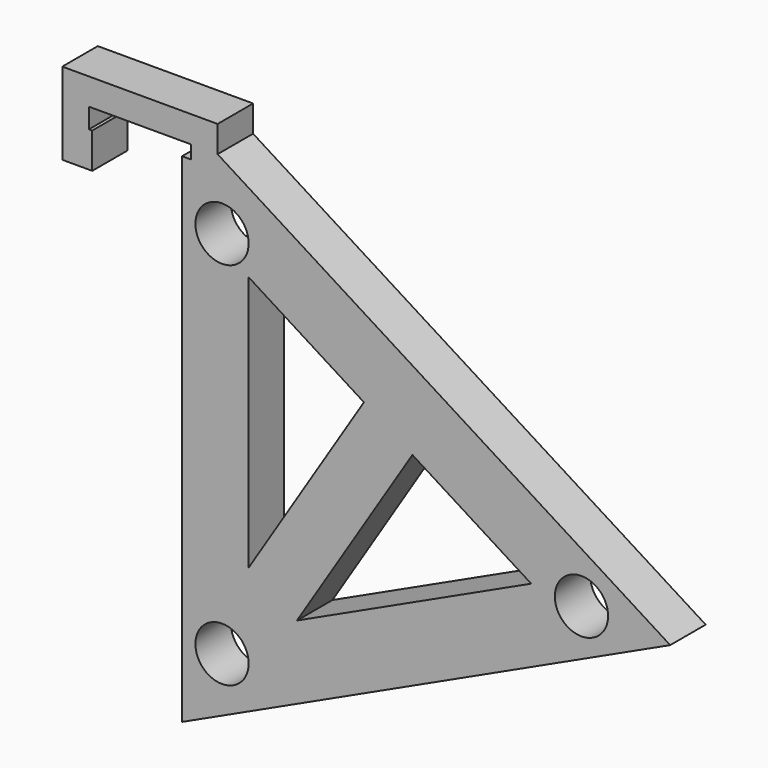
from build123d import *

# Parameters (mm, degrees)
F1_DEPTH = 10
F3_DEPTH = 25
F4_R     = 6
F5_DEPTH = 25
F6_W     = 2
F6_H     = 3
F7_DEPTH = 25


with BuildPart() as f1:
    # F0 (on Front) → F1 (new body)
    with BuildSketch(Plane.XZ):
        Polygon((-6, 0), (0, 0), (0, 8), (0, 12.5), (21, 12.5), (21, -102.735072), (131, -51.729484), (29, 12.5), (29, 18.5), (-6, 18.5), align=None)
        Polygon((0, 8), (0, 0), (0.75, 0), (0.75, 6.25), (0.75, 8), align=None)
    extrude(amount=F1_DEPTH)

    # F2 (on face) → F3 (cut)
    with BuildSketch(Plane.XZ.offset(10)):
        Polygon((61.977412, -25.99209), (36, -9.634093), (36, -67.245669), align=None)
        Polygon((99.665942, -49.724589), (72.907623, -32.874853), (46.886595, -74.197695), align=None)
    extrude(amount=-F3_DEPTH, mode=Mode.SUBTRACT)

    # F4 (on face) → F5 (cut)
    with BuildSketch(Plane.XZ.offset(10)):
        with Locations((30, -2.922298)):
            Circle(F4_R)
        with Locations((111, -50.5)):
            Circle(F4_R)
        with Locations((30, -86.28769)):
            Circle(F4_R)
    extrude(amount=-F5_DEPTH, mode=Mode.SUBTRACT)

    # F6 (on face) → F7 (cut)
    with BuildSketch(Plane.XZ.offset(10)):
        with Locations((22, 11)):
            Rectangle(F6_W, F6_H)
    extrude(amount=-F7_DEPTH, mode=Mode.SUBTRACT)


solid = f1.part
